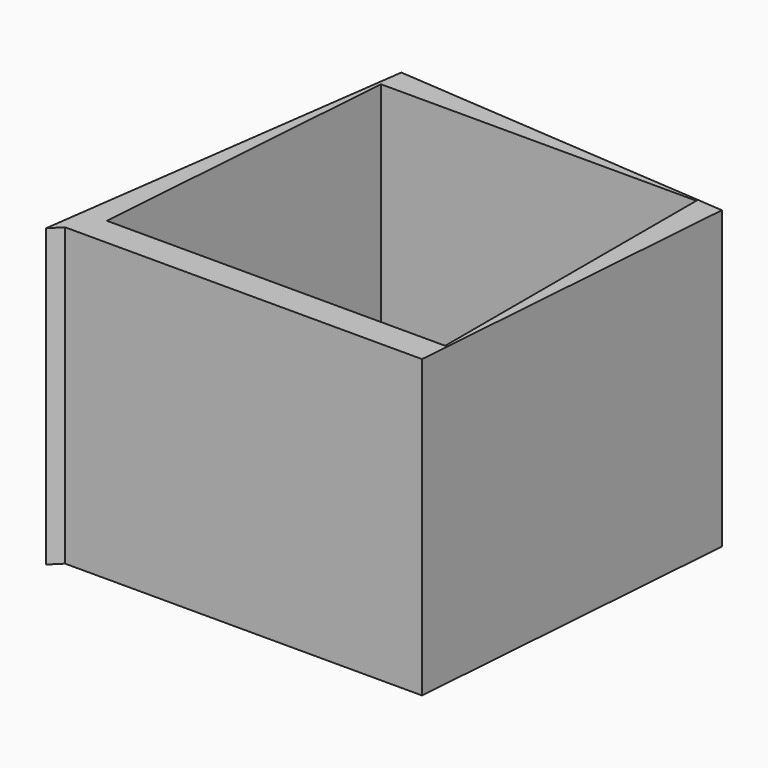
from build123d import *

# Parameters (mm, degrees)
F1_DEPTH = 143.654672


with BuildPart() as f1:
    # F0 (on Top) → F1 (new body)
    with BuildSketch(Plane.XY):
        Polygon((-69.847614, 91.333532), (-94.436558, -87.374002), (-89.989837, -87.374002), (83.154917, -87.374002), (95.552832, 79.008818), align=None)
        Polygon((83.154917, -73.326677), (-80.972433, -73.326677), (-69.847614, 79.008818), (83.154917, 79.008818), align=None, mode=Mode.SUBTRACT)
        Polygon((-89.989837, -87.374002), (-94.436558, -87.374002), (-95.137782, -92.470363), align=None)
    extrude(amount=-F1_DEPTH)


solid = f1.part
